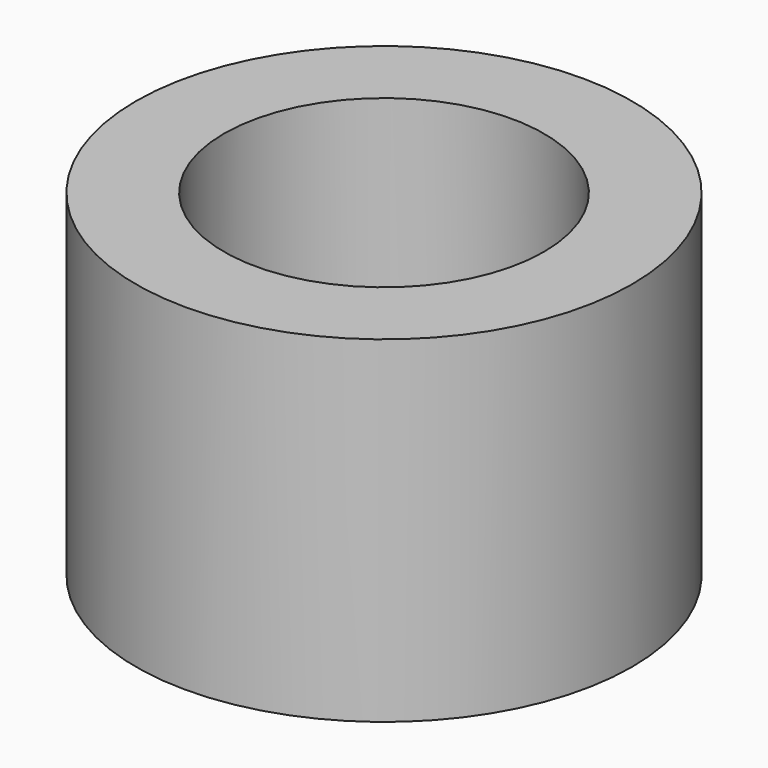
from build123d import *

# Parameters (mm, degrees)
F0_R      = 25.998327
F1_DEPTH  = 35.306
F2_R      = 16.774175
F1_FACE_R = 25.998327
F3_DEPTH  = 105.156


with BuildPart() as f1:
    # F0 (on Top) → F1 (new body)
    with BuildSketch(Plane.XY):
        Circle(F0_R)
    extrude(amount=F1_DEPTH)

    # F2 (on Top) + F1_face (on face) → F3 (cut)
    with BuildSketch(Plane.XY):
        Circle(F2_R)
    with BuildSketch(Plane.XY.offset(35.306)):
        Circle(F1_FACE_R)
    extrude(amount=F3_DEPTH, mode=Mode.SUBTRACT)


solid = f1.part
